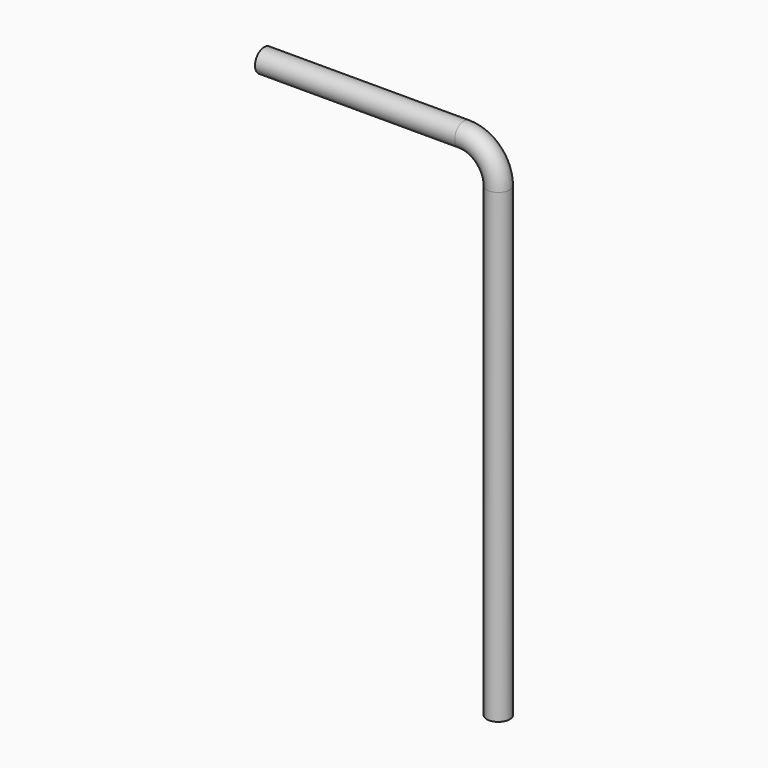
from build123d import *

# Parameters (mm, degrees)
F0_R     = 26.2509
F3_DEPTH = 1066.8
F4_DEPTH = 457.2


with BuildPart() as f2:
    # F2: sweep along a path in F1
    with BuildLine(Plane.XZ) as f2_path:
        ThreePointArc((0, 0), (55.6865682067, -23.0661317933), (78.7527, -78.7527))
    # F0 (on Right) → F2 (sweep)
    with BuildSketch(Plane.YZ):
        Circle(F0_R)
    sweep(path=f2_path.line)

    # F3 (add): a face of the model
    f3_faces = [f2.faces().sort_by_distance(p)[0] for p in [
        (78.7527, 0, -78.7527),
    ]]
    extrude(f3_faces, amount=F3_DEPTH)

    # F4 (add): a face of the model
    f4_faces = [f2.faces().sort_by_distance(p)[0] for p in [
        (0, 0, 0),
    ]]
    extrude(f4_faces, amount=F4_DEPTH)


solid = f2.part
